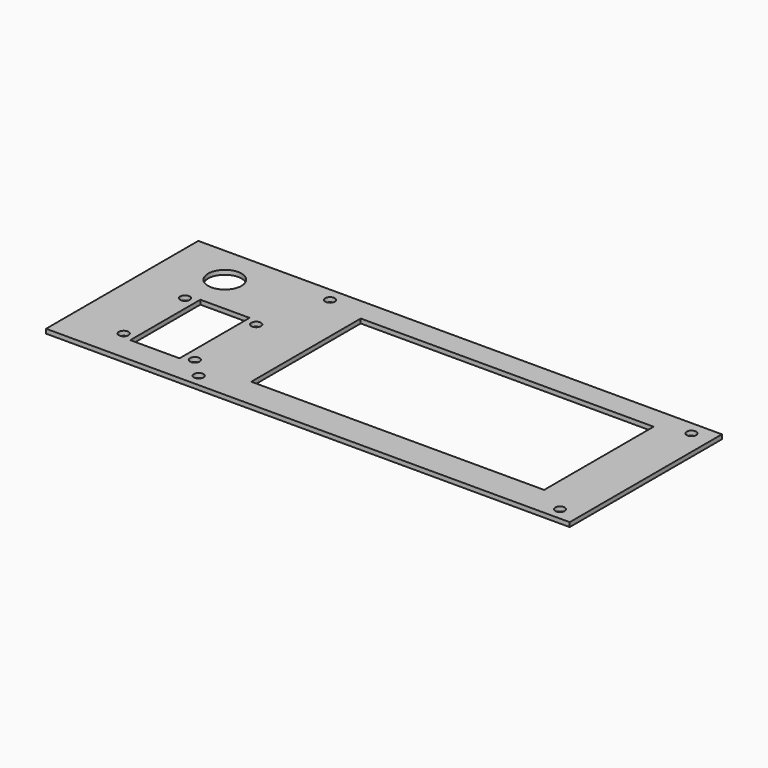
from build123d import *

# Parameters (mm, degrees)
SKETCH_W      = 191.3
SKETCH_H      = 69.5
PAD_DEPTH     = 1.6
SKETCH002_R   = 1.75
SKETCH002_R_2 = 6.1
SKETCH002_W   = 107
SKETCH002_H   = 50
SKETCH002_W_2 = 18
SKETCH002_H_2 = 32
POCKET_DEPTH  = 1.601


with BuildPart() as part:
    # Sketch → Pad (new body)
    with BuildSketch(Plane.XY):
        with Locations((95.65, 34.75)):
            Rectangle(SKETCH_W, SKETCH_H)
    extrude(amount=PAD_DEPTH)

    # Sketch002 (on Face6 of Pad) → Pocket (cut, through all)
    with BuildSketch(Plane.XY.offset(1.6)):
        with Locations((184.15, 4.5)):
            Circle(SKETCH002_R)
        with Locations((52.15, 4.5)):
            Circle(SKETCH002_R)
        with Locations((184.15, 64.5)):
            Circle(SKETCH002_R)
        with Locations((52.15, 64.5)):
            Circle(SKETCH002_R)
        with Locations((19.15, 11.5)):
            Circle(SKETCH002_R)
        with Locations((19.15, 39.5)):
            Circle(SKETCH002_R)
        with Locations((45.15, 11.5)):
            Circle(SKETCH002_R)
        with Locations((45.15, 39.5)):
            Circle(SKETCH002_R)
        with Locations((20.9, 55.5)):
            Circle(SKETCH002_R_2)
        with Locations((119.65, 36)):
            Rectangle(SKETCH002_W, SKETCH002_H)
        with Locations((32.15, 25.5)):
            Rectangle(SKETCH002_W_2, SKETCH002_H_2)
    extrude(amount=-POCKET_DEPTH, mode=Mode.SUBTRACT)


solid = part.part
